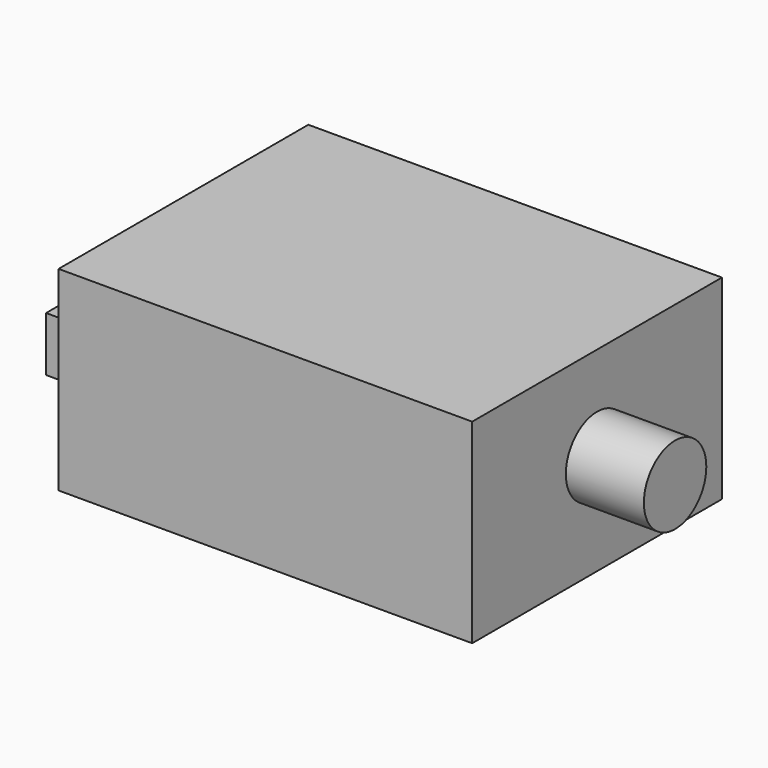
from build123d import *

# Parameters (mm, degrees)
SKETCH001_W  = 53
SKETCH001_H  = 40
PAD001_DEPTH = 25
SKETCH002_R  = 5
PAD002_DEPTH = 10
SKETCH003_R  = 2.5
SKETCH003_W  = 11
SKETCH003_H  = 7
PAD003_DEPTH = 10


with BuildPart() as part:
    # Sketch001 → Pad001 (new body)
    with BuildSketch(Plane.XY):
        Rectangle(SKETCH001_W, SKETCH001_H)
    extrude(amount=PAD001_DEPTH)

    # Sketch002 (on Face2 of Pad001) → Pad002 (join)
    with BuildSketch(Plane.YZ.offset(26.5)):
        with Locations((0, 13)):
            Circle(SKETCH002_R)
    extrude(amount=PAD002_DEPTH)

    # Sketch003 (on Face2 of Pad002) → Pad003 (join)
    with BuildSketch(Plane(origin=(-26.5, 0, 0), x_dir=(0, -1, 0), z_dir=(-1, 0, 0))):
        with Locations((-5.5, 10)):
            Circle(SKETCH003_R)
        with Locations((4, 9)):
            Rectangle(SKETCH003_W, SKETCH003_H)
    extrude(amount=PAD003_DEPTH)


with BuildPart() as part_1:
    # Body001 placement: moved
    add(part.part.moved(Location((0, 0, 6))))


solid = part_1.part
